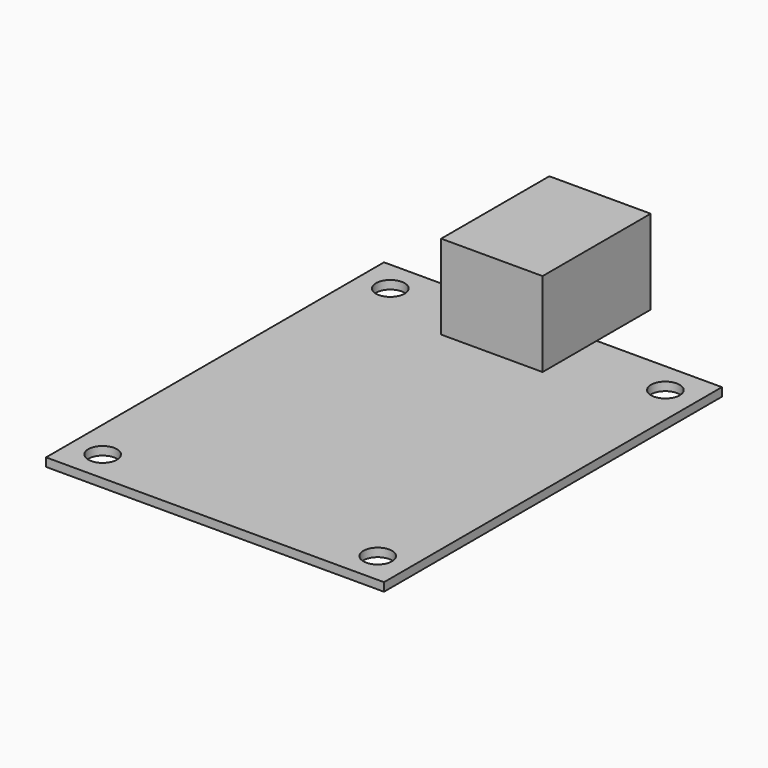
from build123d import *

# Parameters (mm, degrees)
F0_W     = 40
F0_H     = 50
F0_R     = 1.695
F1_DEPTH = 1
F2_W     = 12
F2_H     = 16
F3_DEPTH = 10


with BuildPart() as f1:
    # F0 (on Top) → F1 (new body)
    with BuildSketch(Plane.XY):
        Rectangle(F0_W, F0_H)
        with Locations((-16.28, -21.28)):
            Circle(F0_R, mode=Mode.SUBTRACT)
        with Locations((16.28, -21.28)):
            Circle(F0_R, mode=Mode.SUBTRACT)
        with Locations((-16.28, 21.28)):
            Circle(F0_R, mode=Mode.SUBTRACT)
        with Locations((16.28, 21.28)):
            Circle(F0_R, mode=Mode.SUBTRACT)
    extrude(amount=F1_DEPTH)

    # F2 (on face) → F3 (join)
    with BuildSketch(Plane.XY.offset(1)):
        with Locations((-0.82982, 25)):
            Rectangle(F2_W, F2_H)
    extrude(amount=F3_DEPTH)


solid = f1.part
